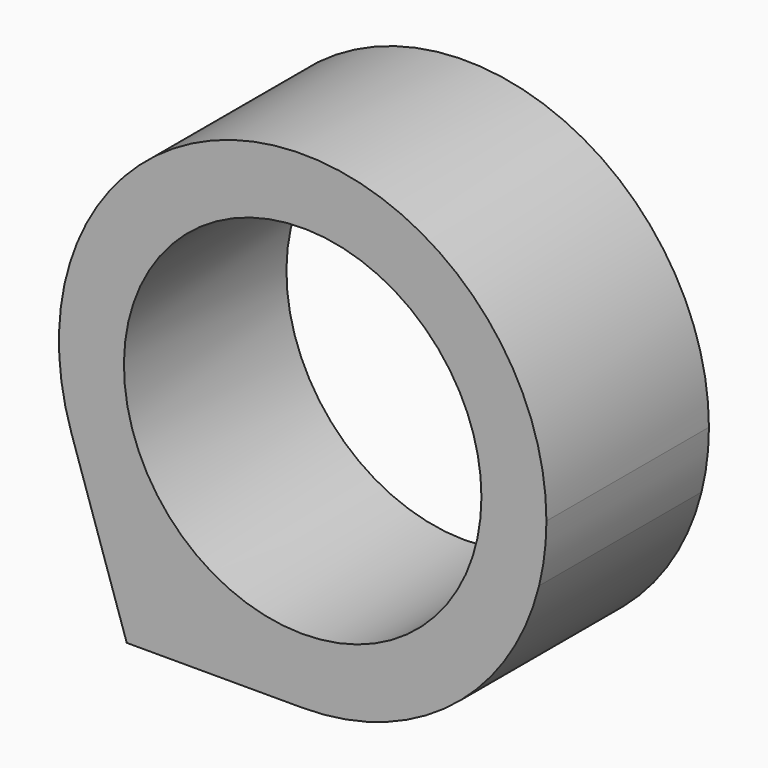
from build123d import *

# Parameters (mm, degrees)
F1_DEPTH = 25


with BuildPart() as f1:
    # F0 (on Front) → F1 (new body)
    with BuildSketch(Plane.XZ):
        with BuildLine():
            ThreePointArc((29.094193, 3.921785), (29.772687, 7.551995), (30, 11.238065))
            ThreePointArc((30, 11.238065), (-4.786795, 40.853712), (-28.47244, 1.787129))
            ThreePointArc((-28.47244, 1.787129), (-17.55665, -13.088136), (0, -18.761935))
            ThreePointArc((0, -18.761935), (18.446024, -12.420849), (29.094193, 3.921785))
        make_face()
        with BuildLine():
            ThreePointArc((22, 11.238065), (-21.312739, 5.782135), (19.293894, 21.809047))
            ThreePointArc((19.293894, 21.809047), (21.312739, 16.693994), (22, 11.238065))
        make_face(mode=Mode.SUBTRACT)
        with BuildLine():
            ThreePointArc((0, -18.761935), (-17.55665, -13.088136), (-28.47244, 1.787129))
            Line((-28.47244, 1.787129), (-21.651532, -18.761935))
            Line((-21.651532, -18.761935), (0, -18.761935))
        make_face()
    extrude(amount=F1_DEPTH)


solid = f1.part
